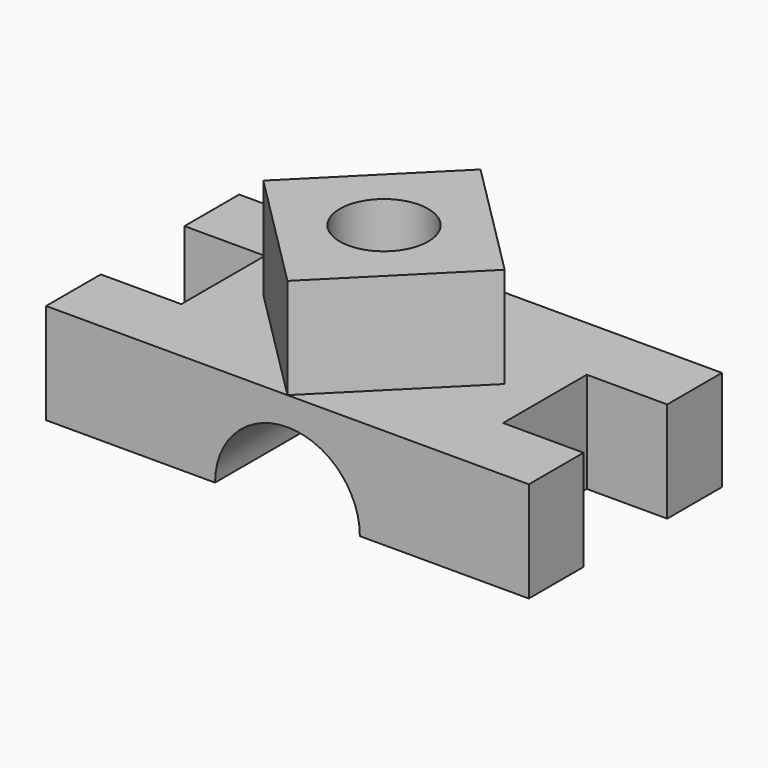
from build123d import *

# Parameters (mm, degrees)
F1_DEPTH = 250
F2_R     = 180
F3_DEPTH = 600.001
F5_DEPTH = 250
F6_R     = 110
F7_DEPTH = 500.001


with BuildPart() as f1:
    # F0 (on Top) → F1 (new body)
    with BuildSketch(Plane.XY):
        Polygon((600, 300), (-600, 300), (-600, 130), (-400, 130), (-400, -130), (-600, -130), (-600, -300), (600, -300), (600, -130), (400, -130), (400, 130), (600, 130), align=None)
    extrude(amount=F1_DEPTH)

    # F2 (on face) → F3 (cut, through all)
    with BuildSketch(Plane.XZ.offset(300)):
        Circle(F2_R)
    extrude(amount=-F3_DEPTH, mode=Mode.SUBTRACT)

    # F4 (on face) → F5 (join)
    with BuildSketch(Plane.XY.offset(250)):
        Polygon((300, 0), (0, 300), (-300, 0), (0, -300), align=None)
    extrude(amount=F5_DEPTH)

    # F6 (on face) → F7 (cut, through all)
    with BuildSketch(Plane.XY.offset(500)):
        Circle(F6_R)
    extrude(amount=-F7_DEPTH, mode=Mode.SUBTRACT)


solid = f1.part
